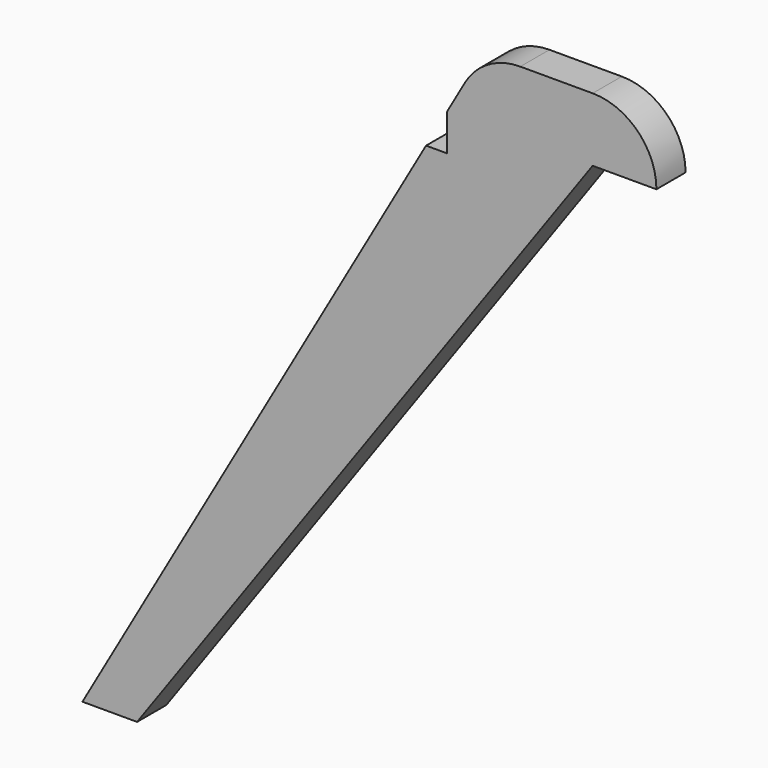
from build123d import *

# Parameters (mm, degrees)
F1_DEPTH = 20


with BuildPart() as f1:
    # F0 (on Front) → F1 (new body)
    with BuildSketch(Plane.XZ):
        with BuildLine():
            ThreePointArc((0, 35), (-17.567439, 30.271853), (-30.38851, 17.364863))
            Line((-30.38851, 17.364863), (-40.311289, 0))
            Line((-40.311289, 0), (-40.311289, -20))
            Line((-40.311289, -20), (-51.73986, -20))
            Line((-51.73986, -20), (-240.311289, -350))
            Line((-240.311289, -350), (-210.311289, -350))
            Line((-210.311289, -350), (39.688711, 0))
            Line((39.688711, 0), (74.688711, 0))
            ThreePointArc((74.688711, 0), (64.437449, 24.748737), (39.688711, 35))
            Line((39.688711, 35), (0, 35))
        make_face()
    extrude(amount=F1_DEPTH)


solid = f1.part
